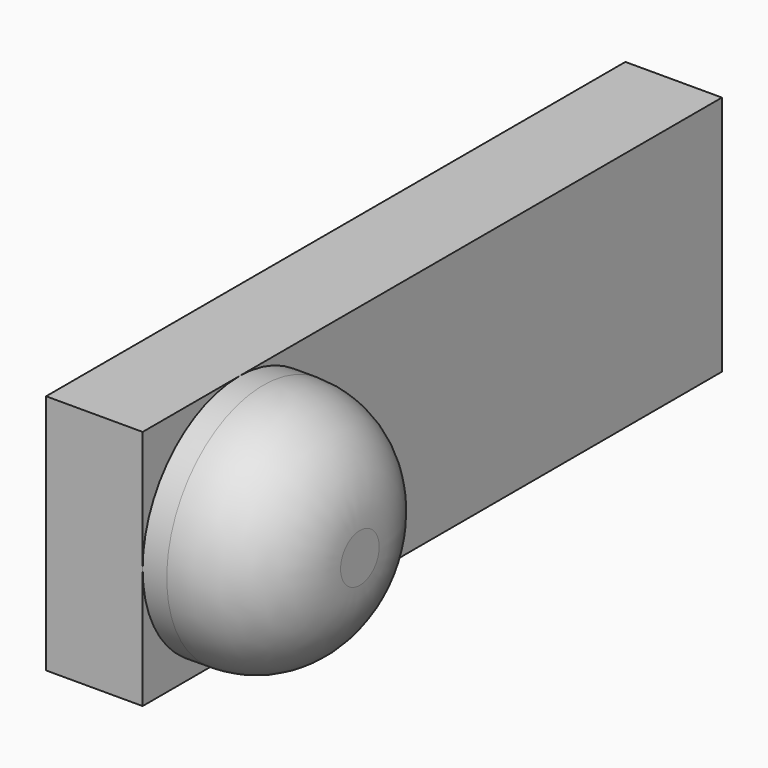
from build123d import *

# Parameters (mm, degrees)
SKETCH019_W             = 6
SKETCH019_H             = 2
PAD002_DEPTH            = 0.8
SKETCH020_R             = 1
PAD003_DEPTH            = 1
FILLET002_R             = 0.8
BODY005_PLACEMENT_ANGLE = 180


with BuildPart() as part:
    # Sketch019 → Pad002 (new body)
    with BuildSketch(Plane(origin=(-3, 16, 14), x_dir=(0, -1, 0), z_dir=(1, 0, 0))):
        with Locations((3, 1)):
            Rectangle(SKETCH019_W, SKETCH019_H)
    extrude(amount=PAD002_DEPTH)

    # Sketch020 (on Face5 of Pad002) → Pad003 (join)
    with BuildSketch(Plane(origin=(-3, 0, 0), x_dir=(0, 1, 0), z_dir=(-1, 0, 0))):
        with Locations((11, -13)):
            Circle(SKETCH020_R)
    extrude(amount=PAD003_DEPTH)

    # Fillet002
    fillet002_edges = [part.edges().sort_by_distance(p)[0] for p in [
        (-4, 10, 13),
    ]]
    fillet(fillet002_edges, radius=FILLET002_R)


with BuildPart() as part_1:
    # Body002 placement: moved
    add(part.part.moved(Location((-16, 0, 0))))


with BuildPart() as part_2:
    # Body005 placement: moved
    add(part_1.part.moved(Location((27.5, 2.6, 20))).rotate(Axis((27.5, 2.6, 20), (0, 1, 0)), BODY005_PLACEMENT_ANGLE))


solid = part_2.part
